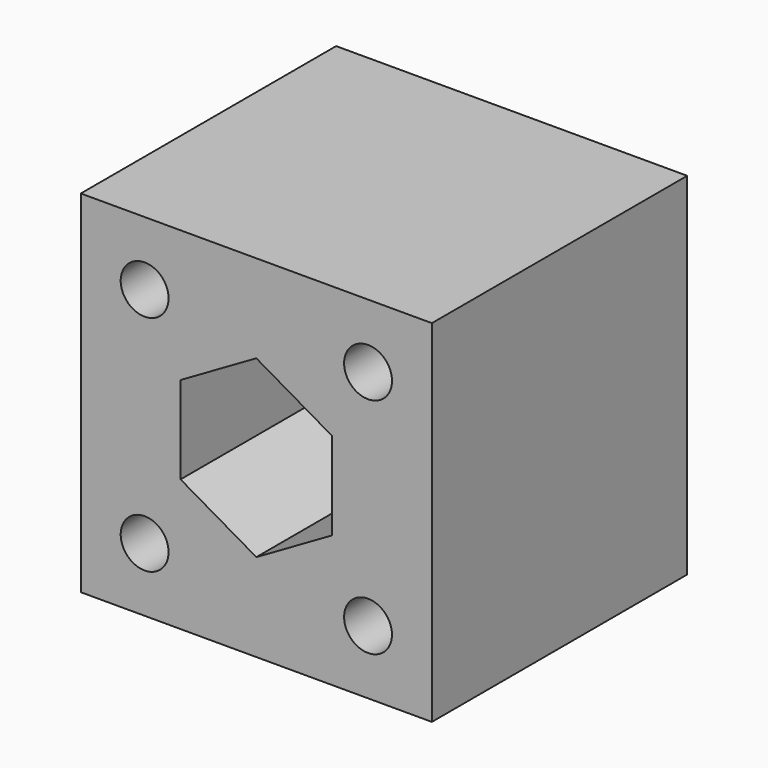
from build123d import *

# Parameters (mm, degrees)
F0_W     = 44
F0_H     = 44
F0_R     = 3
F1_DEPTH = 20


with BuildPart() as f1:
    # F0 (on Front) → F1 (new body, symmetric)
    with BuildSketch(Plane.XZ):
        Rectangle(F0_W, F0_H)
        with Locations((-14, -14)):
            Circle(F0_R, mode=Mode.SUBTRACT)
        with Locations((14, -14)):
            Circle(F0_R, mode=Mode.SUBTRACT)
        with Locations((-14, 14)):
            Circle(F0_R, mode=Mode.SUBTRACT)
        Polygon((0, 10.9696551146), (9.5, 5.4848275573), (9.5, -5.4848275573), (0, -10.9696551146), (-9.5, -5.4848275573), (-9.5, 5.4848275573), align=None, mode=Mode.SUBTRACT)
        with Locations((14, 14)):
            Circle(F0_R, mode=Mode.SUBTRACT)
    extrude(amount=F1_DEPTH, both=True)


solid = f1.part
